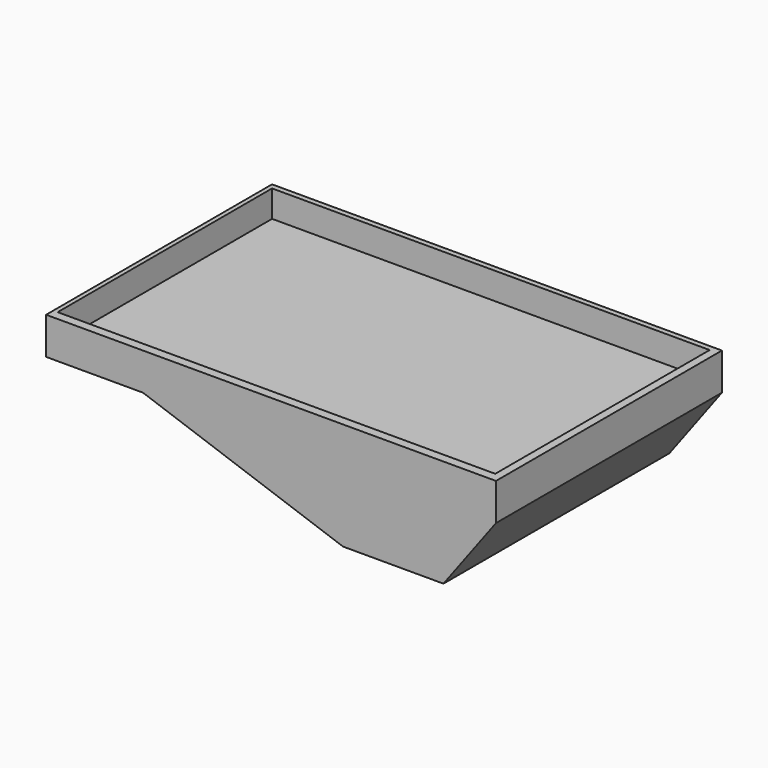
from build123d import *

# Parameters (mm, degrees)
F0_W     = 55.4297519848
F0_H     = 34.7989164293
F0_W_2   = 53.9102558978
F0_H_2   = 33.0191702233
F1_DEPTH = 4.572
F2_W     = 54.6025102958
F2_H     = 33.4553048015
F3_DEPTH = 1.27
F5_DEPTH = 34.7989164293
F6_W     = 13.8362795115
F6_H     = 32.7950716601
F7_DEPTH = 8.382


with BuildPart() as f1:
    # F0 (on Top) → F1 (new body)
    with BuildSketch(Plane.XY):
        with Locations((32.8427054919, -17.3994582146)):
            Rectangle(F0_W, F0_H)
        with Locations((32.6169689652, -17.169818253)):
            Rectangle(F0_W_2, F0_H_2, mode=Mode.SUBTRACT)
    extrude(amount=F1_DEPTH)

    # F2 (on Top) → F3 (join)
    with BuildSketch(Plane.XY):
        with Locations((32.2563764639, -16.7276524007)):
            Rectangle(F2_W, F2_H)
    extrude(amount=F3_DEPTH)

    # F4 (on face) → F5 (join, through all)
    with BuildSketch(Plane(origin=(0, 0, 0), x_dir=(-1, 0, 0), z_dir=(0, 1, 0))):
        Polygon((-41.7104549706, 0), (-54.087433964, 0), (-60.5575814843, 0), (-54.087433964, -8.6766919121), (-41.7104549706, -8.6766919121), (-17.0669779181, 0), align=None)
    extrude(amount=-F5_DEPTH)

    # F6 (on face) → F7 (join)
    with BuildSketch(Plane.XY.offset(1.27)):
        with Locations((46.8185357749, -17.0577689714)):
            Rectangle(F6_W, F6_H)
    extrude(amount=-F7_DEPTH)


solid = f1.part
